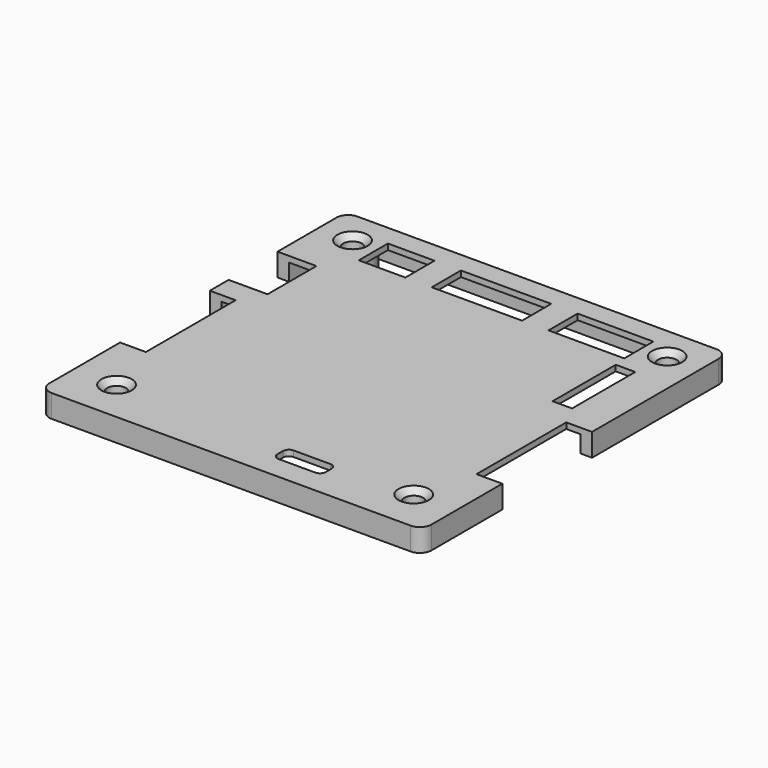
from build123d import *

# Parameters (mm, degrees)
F0_W     = 65.6
F0_H     = 65.6
F0_W_2   = 61.6
F0_H_2   = 61.6
F0_R     = 1.6
F1_DEPTH = 1
F2_DEPTH = 2.91
F3_W     = 4.423
F3_H     = 19.25
F3_W_2   = 6.685
F3_H_2   = 10.487
F3_W_3   = 8
F3_H_3   = 6.25
F3_W_4   = 15.5
F3_W_5   = 13
F3_W_6   = 8.3
F3_H_4   = 3.2
F3_W_7   = 3.35
F3_H_5   = 13.55
F4_DEPTH = 3.911
F5_R     = 1
F6_R     = 2
F7_R     = 3.5
F7_R_2   = 1.6
F8_DEPTH = 4.81
F9_SIZE  = 1


with BuildPart() as f1:
    # F0 (on Top) → F1 (new body)
    with BuildSketch(Plane.XY):
        with Locations((-32.8, 32.8)):
            Rectangle(F0_W, F0_H)
        with Locations((-32.8, 32.8)):
            Rectangle(F0_W_2, F0_H_2, mode=Mode.SUBTRACT)
        with Locations((-32.8, 32.8)):
            Rectangle(F0_W_2, F0_H_2)
        with Locations((-58.3, 7.3)):
            Circle(F0_R, mode=Mode.SUBTRACT)
        with Locations((-7.3, 7.3)):
            Circle(F0_R, mode=Mode.SUBTRACT)
        with Locations((-59.8, 59.8)):
            Circle(F0_R, mode=Mode.SUBTRACT)
        with Locations((-5.8, 59.8)):
            Circle(F0_R, mode=Mode.SUBTRACT)
    extrude(amount=F1_DEPTH)

    # F0 (on Top) → F2 (join)
    with BuildSketch(Plane.XY):
        with Locations((-32.8, 32.8)):
            Rectangle(F0_W, F0_H)
        with Locations((-32.8, 32.8)):
            Rectangle(F0_W_2, F0_H_2, mode=Mode.SUBTRACT)
    extrude(amount=-F2_DEPTH)

    # F3 (on face) → F4 (cut, through all)
    with BuildSketch(Plane.XY.offset(1)):
        with Locations((-63.3885, 26.804)):
            Rectangle(F3_W, F3_H)
        with Locations((-2.2115, 26.804)):
            Rectangle(F3_W, F3_H)
        with Locations((-62.2575, 45.7055)):
            Rectangle(F3_W_2, F3_H_2)
        with Locations((-51.52, 58.912)):
            Rectangle(F3_W_3, F3_H_3)
        with Locations((-35.241, 58.912)):
            Rectangle(F3_W_4, F3_H_3)
        with Locations((-16.462, 58.912)):
            Rectangle(F3_W_5, F3_H_3)
        with Locations((-24.727, 5.641)):
            Rectangle(F3_W_6, F3_H_4)
        with Locations((-8.017, 46.855)):
            Rectangle(F3_W_7, F3_H_5)
    extrude(amount=-F4_DEPTH, mode=Mode.SUBTRACT)

    # F5
    f5_edges = [f1.edges().sort_by_distance(p)[0] for p in [
        (-28.877, 7.241, 0.5),
        (-20.577, 4.041, 0.5),
        (-20.577, 7.241, 0.5),
        (-28.877, 4.041, 0.5),
    ]]
    fillet(f5_edges, radius=F5_R)

    # F6
    f6_edges = [f1.edges().sort_by_distance(p)[0] for p in [
        (-65.6, 0, -0.955),
        (0, 0, -0.955),
        (0, 65.6, -0.955),
        (-65.6, 65.6, -0.955),
    ]]
    fillet(f6_edges, radius=F6_R)

    # F7 (on face) → F8 (join)
    with BuildSketch(Plane(origin=(0, 0, 0), x_dir=(1, 0, 0), z_dir=(0, 0, -1))):
        with Locations((-7.3, -7.3)):
            Circle(F7_R)
        with Locations((-7.3, -7.3)):
            Circle(F7_R_2, mode=Mode.SUBTRACT)
        with Locations((-5.8, -59.8)):
            Circle(F7_R)
        with Locations((-5.8, -59.8)):
            Circle(F7_R_2, mode=Mode.SUBTRACT)
        with Locations((-59.8, -59.8)):
            Circle(F7_R)
        with Locations((-59.8, -59.8)):
            Circle(F7_R_2, mode=Mode.SUBTRACT)
        with Locations((-58.3, -7.3)):
            Circle(F7_R)
        with Locations((-58.3, -7.3)):
            Circle(F7_R_2, mode=Mode.SUBTRACT)
    extrude(amount=F8_DEPTH)

    # F9
    f9_edges = [f1.edges().sort_by_distance(p)[0] for p in [
        (-7.4, 59.8, 1),
        (-8.9, 7.3, 1),
        (-59.9, 7.3, 1),
        (-61.4, 59.8, 1),
    ]]
    chamfer(f9_edges, length=F9_SIZE)


solid = f1.part
